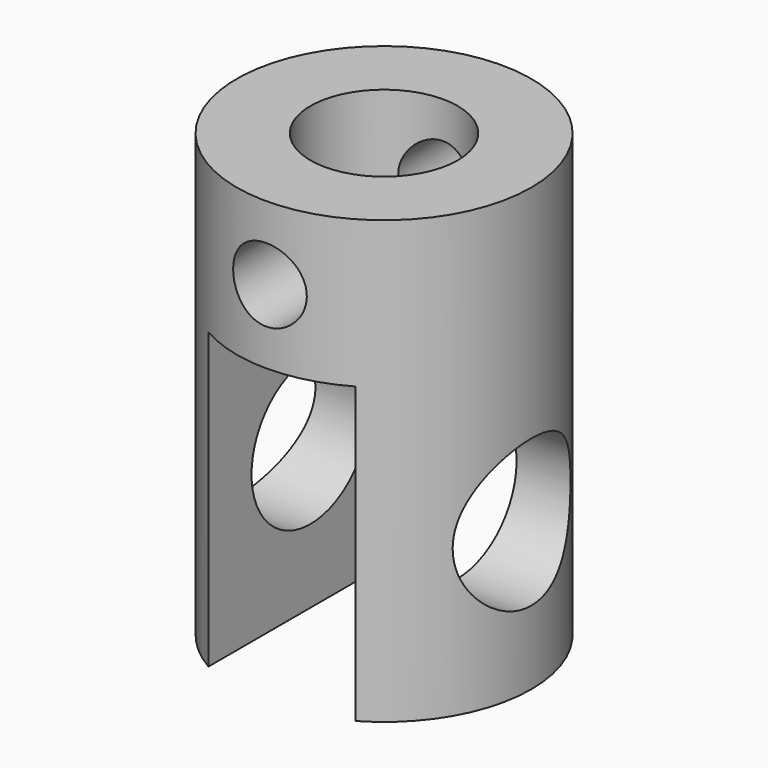
from build123d import *

# Parameters (mm, degrees)
F0_R     = 4
F1_DEPTH = 12
F2_W     = 4
F2_H     = 8
F3_DEPTH = 12.5
F4_R     = 1
F5_DEPTH = 12.5
F6_R     = 2
F7_DEPTH = 12.001
F8_R     = 2
F9_DEPTH = 12.5


with BuildPart() as f1:
    # F0 (on Top) → F1 (new body)
    with BuildSketch(Plane.XY):
        Circle(F0_R)
    extrude(amount=F1_DEPTH)

    # F2 (on Front) → F3 (cut, symmetric)
    with BuildSketch(Plane.XZ):
        with Locations((0, 4)):
            Rectangle(F2_W, F2_H)
    extrude(amount=F3_DEPTH, both=True, mode=Mode.SUBTRACT)

    # F4 (on Front) → F5 (cut, symmetric)
    with BuildSketch(Plane.XZ):
        with Locations((0, 10)):
            Circle(F4_R)
    extrude(amount=F5_DEPTH, both=True, mode=Mode.SUBTRACT)

    # F6 (on face) → F7 (cut, through all)
    with BuildSketch(Plane.XY.offset(12)):
        Circle(F6_R)
    extrude(amount=-F7_DEPTH, mode=Mode.SUBTRACT)

    # F8 (on Right) → F9 (cut, symmetric)
    with BuildSketch(Plane.YZ):
        with Locations((0, 4)):
            Circle(F8_R)
    extrude(amount=F9_DEPTH, both=True, mode=Mode.SUBTRACT)


solid = f1.part
